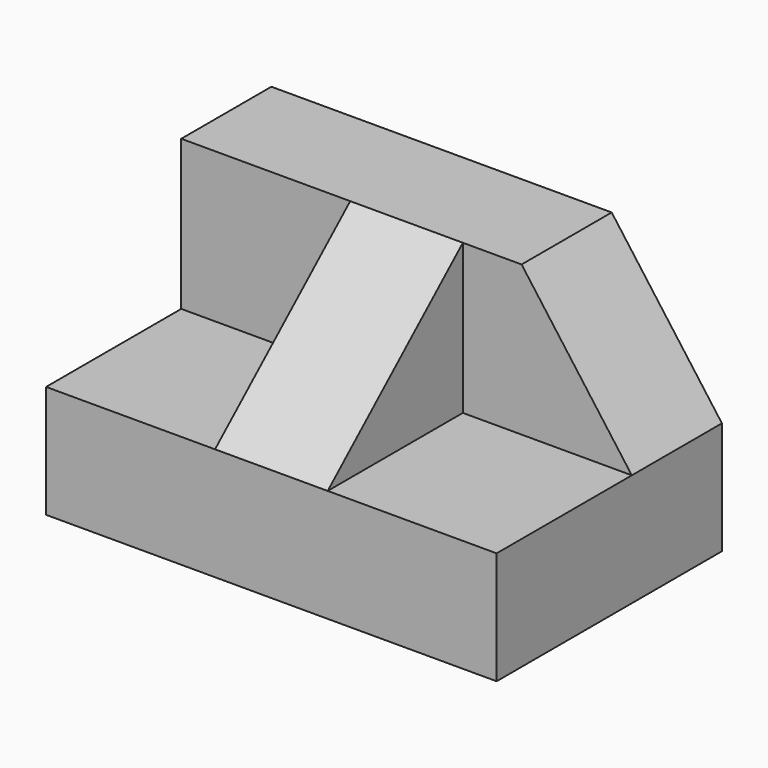
from build123d import *

# Parameters (mm, degrees)
F1_DEPTH = 50.8
F3_DEPTH = 25.4
F4_W     = 12.7
F4_H     = 19.05
F5_DEPTH = 17.018
F7_DEPTH = 25.4


with BuildPart() as f1:
    # F0 (on Right) → F1 (new body)
    with BuildSketch(Plane.YZ):
        Polygon((-31.75, 12.7), (-31.75, 0), (0, 0), (0, 29.588299), (-12.7, 29.588299), (-12.7, 12.7), align=None)
    extrude(amount=F1_DEPTH)

    # F2 (on face) → F3 (cut)
    with BuildSketch(Plane.XZ.offset(12.7)):
        Polygon((38.373474, 29.588299), (50.8, 12.7), (50.8, 29.588299), align=None)
    extrude(amount=-F3_DEPTH, mode=Mode.SUBTRACT)

    # F4 (on face) → F5 (join)
    with BuildSketch(Plane.XY.offset(12.7)):
        with Locations((25.4, -22.225)):
            Rectangle(F4_W, F4_H)
    extrude(amount=F5_DEPTH)

    # F6 (on face) → F7 (cut)
    with BuildSketch(Plane.YZ.offset(31.75)):
        Polygon((-31.75, 29.718), (-31.75, 12.7), (-12.7, 29.588299), (-12.7, 29.718), align=None)
    extrude(amount=-F7_DEPTH, mode=Mode.SUBTRACT)


solid = f1.part
